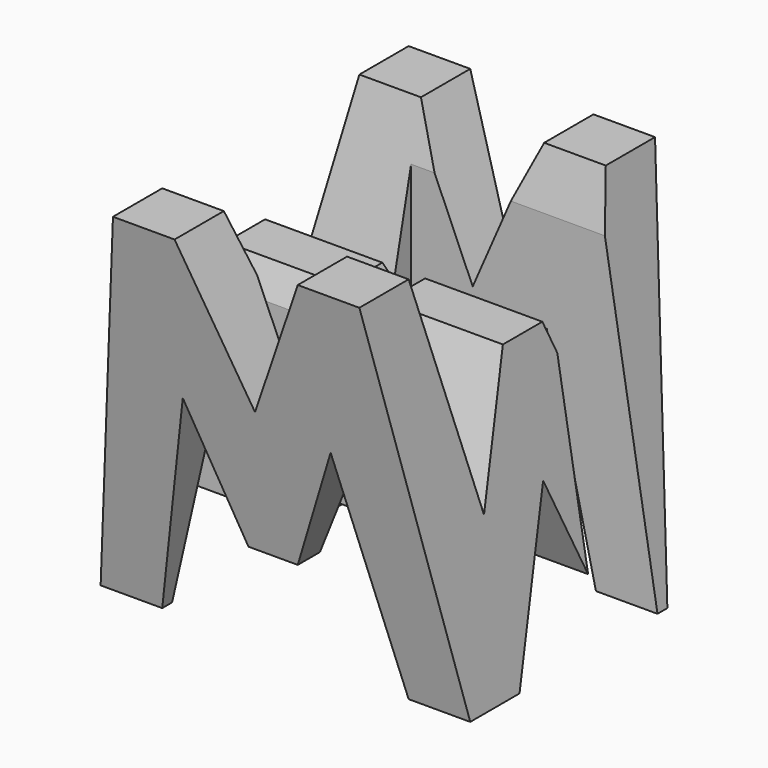
from build123d import *

# Parameters (mm, degrees)
F3_W      = 38.1
F3_H      = 38.1
F4_DEPTH  = 38.1
F6_DEPTH  = 38.1
F8_DEPTH  = 38.1
F9_W      = 25.4
F9_H      = 7.62
F10_DEPTH = 38.1


with BuildPart() as f4:
    # F3 (on Front) → F4 (new body)
    with BuildSketch(Plane.XZ):
        with Locations((19.05, 19.05)):
            Rectangle(F3_W, F3_H)
    extrude(amount=-F4_DEPTH)

    # F5 (on offset) → F6 (cut)
    with BuildSketch(Plane.YZ.offset(38.1)):
        Polygon((31.75, 38.1), (6.35, 38.1), (11.43, 15.875), (16.51, 28.575), (21.59, 28.575), (26.67, 15.875), align=None)
        Polygon((0, 38.1), (0, 0), (6.35, 0), align=None)
        Polygon((19.05, 15.875), (12.7, 0), (25.4, 0), align=None)
        Polygon((38.1, 38.1), (31.75, 0), (38.1, 0), align=None)
    extrude(amount=-F6_DEPTH, mode=Mode.SUBTRACT)

    # F7 (on offset) → F8 (cut)
    with BuildSketch(Plane.XZ):
        Polygon((25.4, 38.1), (12.7, 38.1), (19.05, 23.510631), align=None)
        Polygon((6.35, 38.1), (0, 38.1), (0, 0), align=None)
        Polygon((11.43, 22.225), (6.35, 0), (31.75, 0), (26.67, 22.225), (21.59, 9.525), (16.51, 9.525), align=None)
        Polygon((31.75, 38.1), (38.1, 0), (38.1, 38.1), align=None)
    extrude(amount=-F8_DEPTH, mode=Mode.SUBTRACT)

    # F9 (on offset) → F10 (cut)
    with BuildSketch(Plane.XY.offset(38.1)):
        with Locations((25.4, 26.67)):
            Rectangle(F9_W, F9_H)
        with Locations((12.7, 11.43)):
            Rectangle(F9_W, F9_H)
    extrude(amount=-F10_DEPTH, mode=Mode.SUBTRACT)


solid = f4.part
